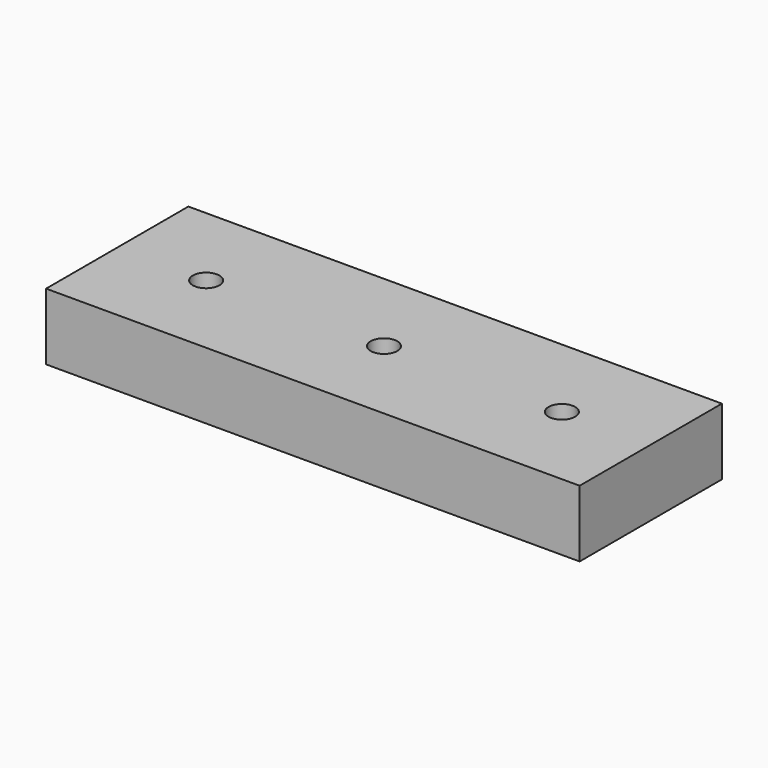
from build123d import *

# Parameters (mm, degrees)
F0_W     = 76.2
F0_H     = 25.4
F1_DEPTH = 9.525
F2_D     = 3.7973


with BuildPart() as f1:
    # F0 (on Top) → F1 (new body)
    with BuildSketch(Plane.XY):
        Rectangle(F0_W, F0_H)
    extrude(amount=-F1_DEPTH)

    # F2 (through all)
    with Locations(Plane.XY):
        with Locations((-25.4, 0), (25.4, 0), (0, 0)):
            Hole(F2_D / 2)


solid = f1.part
